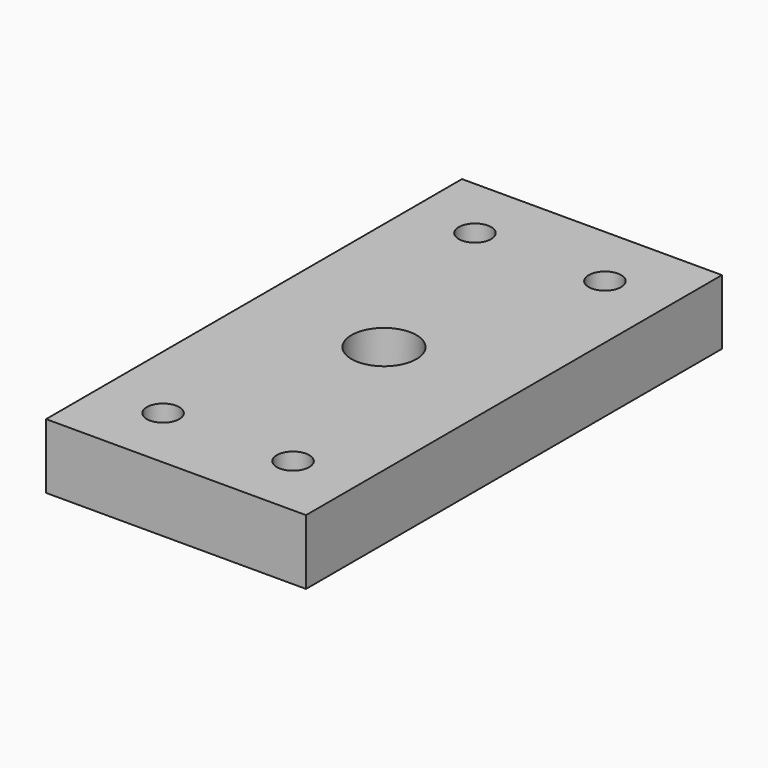
from build123d import *

# Parameters (mm, degrees)
F0_W     = 25.4
F0_H     = 50.8
F0_R     = 1.5875
F0_R_2   = 3.175
F1_DEPTH = 6.35


with BuildPart() as f1:
    # F0 (on Top) → F1 (new body)
    with BuildSketch(Plane.XY):
        with Locations((12.7, 25.4)):
            Rectangle(F0_W, F0_H)
        with Locations((6.35, 6.35)):
            Circle(F0_R, mode=Mode.SUBTRACT)
        with Locations((12.7, 25.4)):
            Circle(F0_R_2, mode=Mode.SUBTRACT)
        with Locations((19.05, 6.35)):
            Circle(F0_R, mode=Mode.SUBTRACT)
        with Locations((6.35, 44.45)):
            Circle(F0_R, mode=Mode.SUBTRACT)
        with Locations((19.05, 44.45)):
            Circle(F0_R, mode=Mode.SUBTRACT)
    extrude(amount=F1_DEPTH)


solid = f1.part
